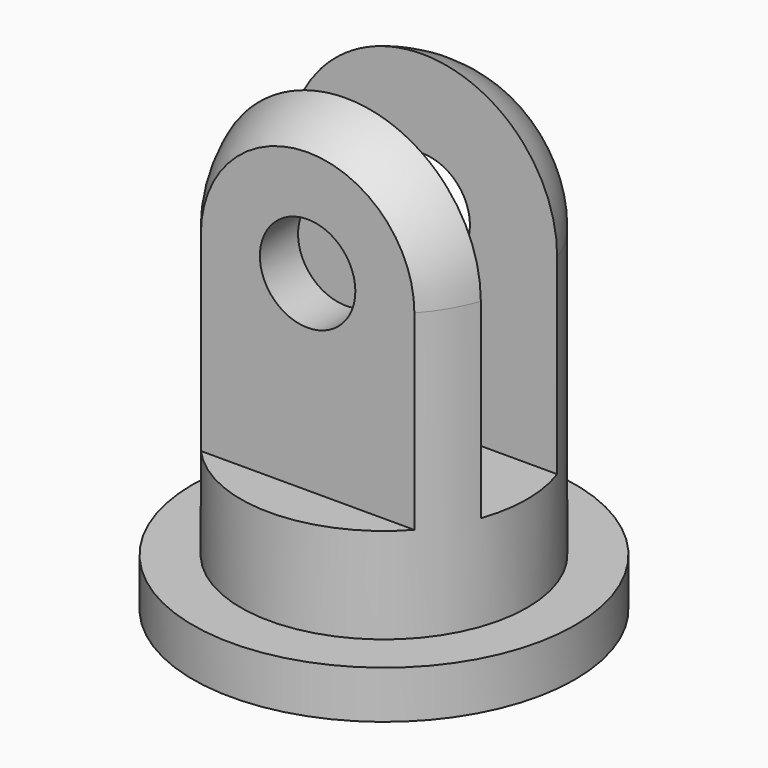
from build123d import *

# Parameters (mm, degrees)
F0_R     = 4
F1_DEPTH = 1
F2_R     = 3
F3_DEPTH = 9
F4_R     = 3
F5_W     = 2.974178
F5_H     = 8.153107
F6_DEPTH = 12.5
F7_R     = 1
F8_DEPTH = 6.001


with BuildPart() as f1:
    # F0 (on Top) → F1 (new body)
    with BuildSketch(Plane.XY):
        Circle(F0_R)
    extrude(amount=F1_DEPTH)

    # F2 (on face) → F3 (join)
    with BuildSketch(Plane.XY.offset(1)):
        Circle(F2_R)
    extrude(amount=F3_DEPTH)

    # F4
    f4_edges = [f1.edges().sort_by_distance(p)[0] for p in [
        (-3, 0, 10),
    ]]
    fillet(f4_edges, radius=F4_R)

    # F5 (on Right) → F6 (cut, symmetric)
    with BuildSketch(Plane.YZ):
        Polygon((-1, 3), (0, 3), (1, 3), (1, 11.181624), (0, 11.181624), (-1, 11.181624), align=None)
        with Locations((-3.487089, 7.076554)):
            Rectangle(F5_W, F5_H)
        with Locations((3.487089, 7.076554)):
            Rectangle(F5_W, F5_H)
    extrude(amount=F6_DEPTH, both=True, mode=Mode.SUBTRACT)

    # F7 (on face) → F8 (cut, through all)
    with BuildSketch(Plane.XZ.offset(2)):
        with Locations((0, 7)):
            Circle(F7_R)
    extrude(amount=-F8_DEPTH, mode=Mode.SUBTRACT)


solid = f1.part
